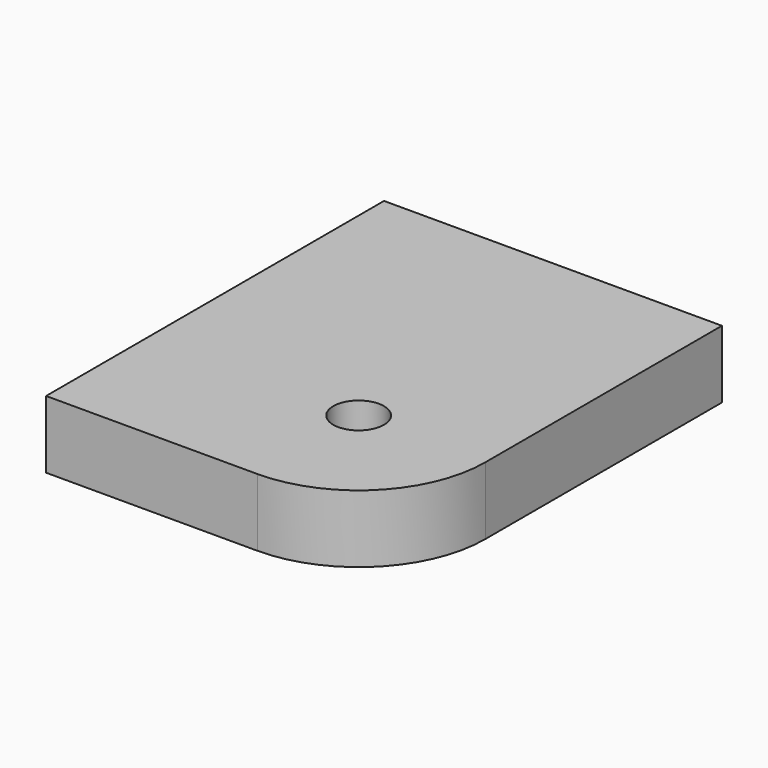
from build123d import *

# Parameters (mm, degrees)
F1_DEPTH = 8
F2_D     = 6


with BuildPart() as f1:
    # F0 (on Top) → F1 (new body)
    with BuildSketch(Plane.XY):
        with BuildLine():
            Line((15, -10), (15, 25))
            Line((15, 25), (-15, 25))
            Line((-15, 25), (-25, 25))
            Line((-25, 25), (-25, -25))
            Line((-25, -25), (-15, -25))
            Line((-15, -25), (0, -25))
            ThreePointArc((0, -25), (10.6066017178, -20.6066017178), (15, -10))
        make_face()
    extrude(amount=F1_DEPTH)

    # F2 (through all)
    with Locations(Plane(origin=(0, 0, 0), x_dir=(1, 0, 0), z_dir=(0, 0, -1))):
        with Locations((0, 10)):
            Hole(F2_D / 2)


solid = f1.part
